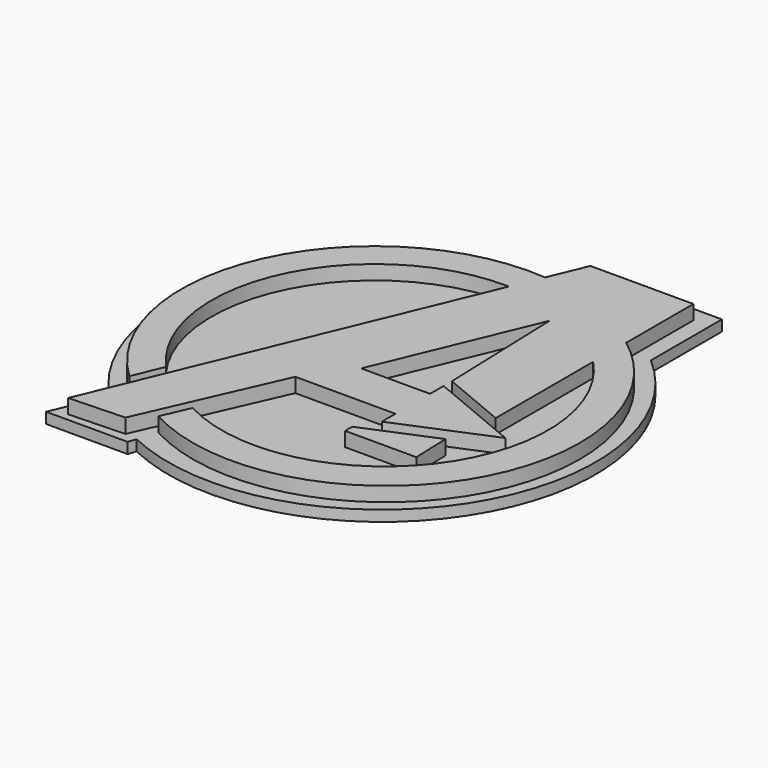
from build123d import *

# Parameters (mm, degrees)
F1_DEPTH = 8.89
F3_DEPTH = 3.81


with BuildPart() as f1:
    # F0 (on Top) → F1 (new body)
    with BuildSketch(Plane.XY):
        with BuildLine():
            ThreePointArc((-42.489545, -38.790045), (-52.37787, 23.803105), (1.277913, 57.518658))
            Line((1.277913, 57.518658), (-51.96245, -70.13663))
            Line((-51.96245, -70.13663), (-32.363627, -69.423527))
            Line((-32.363627, -69.423527), (-11.041488, -21.221803))
            Line((-11.041488, -21.221803), (24.273468, -21.221803))
            Line((24.273468, -21.221803), (24.273468, -27.2172))
            Line((24.273468, -27.2172), (56.903031, -13.6086))
            Line((56.903031, -13.6086), (24.273468, 0))
            Line((24.273468, 0), (24.273468, -5.995397))
            Line((24.273468, -5.995397), (0, -5.995397))
            Line((0, -5.995397), (22.75317, 48.560249))
            Line((22.75317, 48.560249), (24.273468, 3.64561))
            Line((24.273468, 3.64561), (47.407672, -6.002822))
            Line((47.407672, -6.002822), (47.407672, 36.946579))
            ThreePointArc((47.407672, 36.946579), (51.40962, -37.549122), (-21.497622, -53.365544))
            Line((-21.497622, -53.365544), (-25.750926, -63.152558))
            ThreePointArc((-25.750926, -63.152558), (64.043183, -39.765238), (47.407672, 51.52117))
            Line((47.407672, 51.52117), (47.407672, 81.110945))
            Line((47.407672, 81.110945), (11.117395, 81.110945))
            Line((11.117395, 81.110945), (5.635782, 67.967593))
            ThreePointArc((5.635782, 67.967593), (-62.246758, 27.869282), (-46.944845, -49.472591))
            Line((-46.944845, -49.472591), (-42.489545, -38.790045))
        make_face()
        Polygon((44.907465, -37.824925), (44.452645, -24.388041), (19.796325, -34.671292), (19.796325, -37.824925), align=None)
    extrude(amount=F1_DEPTH)


with BuildPart() as f3:
    # F2 (on Top) → F3 (new body)
    with BuildSketch(Plane.XY):
        with BuildLine():
            Line((7.012319, 86.476453), (2.077487, 73.482301))
            ThreePointArc((2.077487, 73.482301), (-65.797669, 26.599863), (-49.957624, -54.357489))
            Line((-49.957624, -54.357489), (-57.680618, -72.728217))
            Line((-57.680618, -72.728217), (-28.972721, -72.728217))
            Line((-28.972721, -72.728217), (-27.993994, -69.967594))
            ThreePointArc((-27.993994, -69.967594), (67.101761, -42.755892), (53.176355, 55.171439))
            Line((53.176355, 55.171439), (53.176355, 86.476453))
            Line((53.176355, 86.476453), (7.012319, 86.476453))
        make_face()
    extrude(amount=F3_DEPTH)


solid = Compound([f1.part, f3.part])
